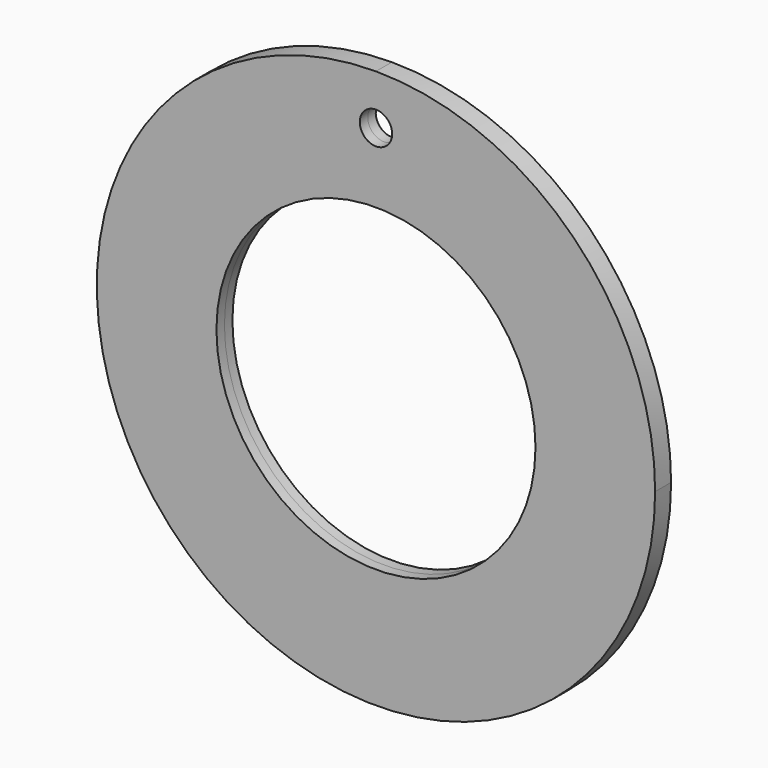
from build123d import *

# Parameters (mm, degrees)
F0_R     = 50.8
F1_DEPTH = 3.175


with BuildPart() as f1:
    # F0 (on Front) → F1 (new body, symmetric)
    with BuildSketch(Plane.XZ):
        with BuildLine():
            ThreePointArc((0, 88.9), (-62.861793, -62.861793), (88.9, 0))
            ThreePointArc((88.9, 0), (62.861793, 62.861793), (0, 88.9))
        make_face()
        Circle(F0_R, mode=Mode.SUBTRACT)
        with BuildLine():
            ThreePointArc((5.1562, 73.025), (-3.645984, 69.379016), (0, 78.1812))
            ThreePointArc((0, 78.1812), (3.645984, 76.670984), (5.1562, 73.025))
        make_face(mode=Mode.SUBTRACT)
    extrude(amount=F1_DEPTH, both=True)


solid = f1.part
